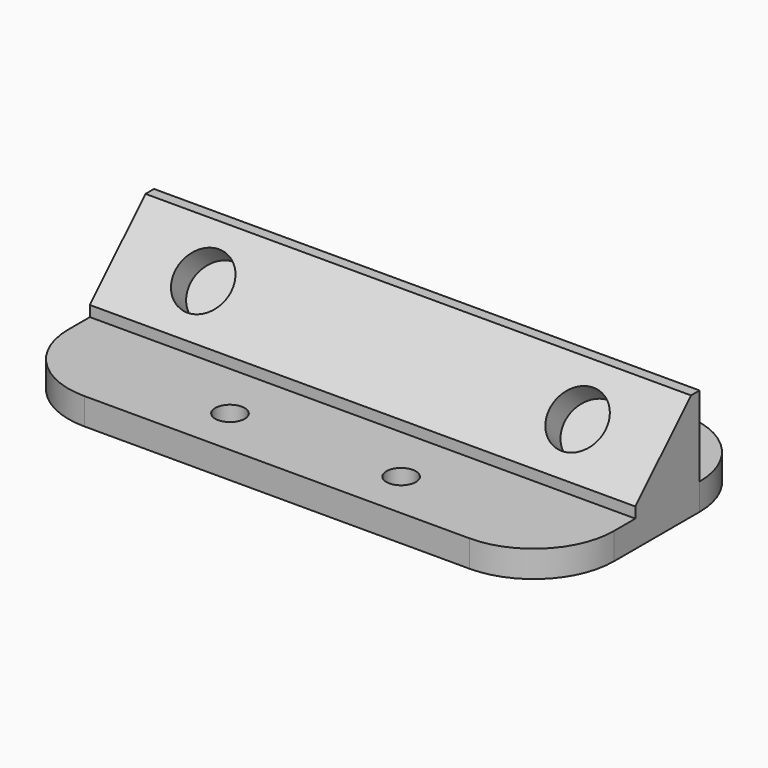
from build123d import *

# Parameters (mm, degrees)
F0_W     = 102
F0_H     = 50
F0_R     = 2.75
F1_DEPTH = 5
F2_W     = 102
F2_H     = 15
F3_DEPTH = 15
F4_SIZE  = 13
F5_R     = 15
F6_R     = 5.25
F7_DEPTH = 5


with BuildPart() as f1:
    # F0 (on Top) → F1 (new body)
    with BuildSketch(Plane.XY):
        with Locations((35.2871024236, -14.6758168936)):
            Rectangle(F0_W, F0_H)
        with Locations((19.2871024236, -30.6758168936)):
            Circle(F0_R, mode=Mode.SUBTRACT)
        with Locations((51.2871024236, -30.6758168936)):
            Circle(F0_R, mode=Mode.SUBTRACT)
        with Locations((19.2871024236, 1.3241831064)):
            Circle(F0_R, mode=Mode.SUBTRACT)
        with Locations((51.2871024236, 1.3241831064)):
            Circle(F0_R, mode=Mode.SUBTRACT)
    extrude(amount=F1_DEPTH)

    # F2 (on face) → F3 (join)
    with BuildSketch(Plane.XY.offset(5)):
        with Locations((35.2871024236, -12.1758168936)):
            Rectangle(F2_W, F2_H)
    extrude(amount=F3_DEPTH)

    # F4
    f4_edges = [f1.edges().sort_by_distance(p)[0] for p in [
        (35.287102, -19.675817, 20),
    ]]
    chamfer(f4_edges, length=F4_SIZE)

    # F5
    f5_edges = [f1.edges().sort_by_distance(p)[0] for p in [
        (86.287102, 10.324183, 2.5),
        (-15.712898, 10.324183, 2.5),
        (86.287102, -39.675817, 2.5),
        (-15.712898, -39.675817, 2.5),
    ]]
    fillet(f5_edges, radius=F5_R)

    # F6 (on face) → F7 (cut)
    with BuildSketch(Plane(origin=(0, -13.3379084468, 13.3379084468), x_dir=(1, 0, 0), z_dir=(0, -0.7071067812, 0.7071067812))):
        with Locations((0.2871024236, 0.2292320729)):
            Circle(F6_R)
        with Locations((70.2871024236, 0.2292320729)):
            Circle(F6_R)
    extrude(amount=-F7_DEPTH, mode=Mode.SUBTRACT)


solid = f1.part
